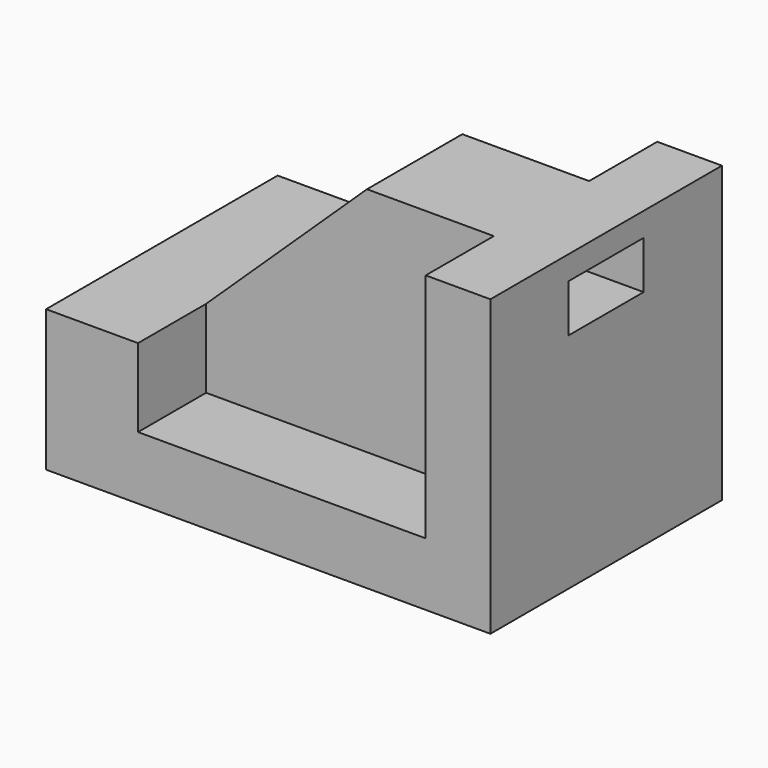
from build123d import *

# Parameters (mm, degrees)
F1_DEPTH = 25.908
F2_DEPTH = 10.668
F3_W     = 16.764
F3_H     = 8.548961
F4_DEPTH = 83.312


with BuildPart() as f1:
    # F0 (on Front) → F1 (new body, symmetric)
    with BuildSketch(Plane.XZ):
        Polygon((34.290001, -52.7304), (34.290001, 0), (22.707598, 0), (22.707598, -41.452803), (-28.8036, -41.452803), (-28.8036, -27.432), (-45.262802, -27.432), (-45.262802, -52.7304), align=None)
    extrude(amount=F1_DEPTH, both=True)

    # F0 (on Front) → F2 (join, symmetric)
    with BuildSketch(Plane.XZ):
        Polygon((22.707598, -41.452803), (22.707598, 0), (0, 0), (-28.8036, -27.432), (-28.8036, -41.452803), align=None)
    extrude(amount=F2_DEPTH, both=True)

    # F3 (on face) → F4 (cut)
    with BuildSketch(Plane.YZ.offset(34.290001)):
        with Locations((0, -8.534401)):
            Rectangle(F3_W, F3_H)
    extrude(amount=-F4_DEPTH, mode=Mode.SUBTRACT)


solid = f1.part
